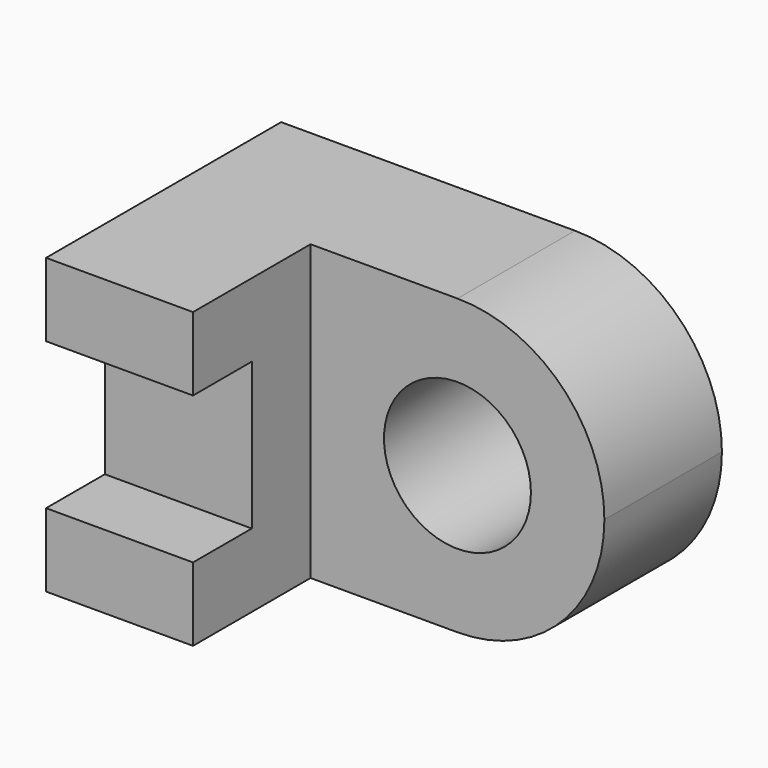
from build123d import *

# Parameters (mm, degrees)
F1_DEPTH = 25.4
F2_R     = 6.35
F3_DEPTH = 12.701
F5_DEPTH = 25.401
F6_W     = 6.35
F6_H     = 12.7
F7_DEPTH = 38.101


with BuildPart() as f1:
    # F0 (on Top) → F1 (new body)
    with BuildSketch(Plane.XY):
        Polygon((38.1, 0), (0, 0), (0, -25.4), (12.7, -25.4), (12.7, -12.7), (38.1, -12.7), align=None)
    extrude(amount=F1_DEPTH)

    # F2 (on face) → F3 (cut, through all)
    with BuildSketch(Plane.XZ.offset(12.7)):
        with Locations((25.4, 12.7)):
            Circle(F2_R)
    extrude(amount=-F3_DEPTH, mode=Mode.SUBTRACT)

    # F4 (on face) → F5 (cut, through all)
    with BuildSketch(Plane(origin=(0, 0, 0), x_dir=(-1, 0, 0), z_dir=(0, 1, 0))):
        with BuildLine():
            ThreePointArc((-25.4, 0), (-34.380256, 3.719744), (-38.1, 12.7))
            Line((-38.1, 12.7), (-38.1, 0))
            Line((-38.1, 0), (-25.4, 0))
        make_face()
        with BuildLine():
            ThreePointArc((-38.1, 12.7), (-34.380256, 21.680256), (-25.4, 25.4))
            Line((-25.4, 25.4), (-38.1, 25.4))
            Line((-38.1, 25.4), (-38.1, 12.7))
        make_face()
    extrude(amount=-F5_DEPTH, mode=Mode.SUBTRACT)

    # F6 (on face) → F7 (cut, through all)
    with BuildSketch(Plane(origin=(0, 0, 0), x_dir=(0, -1, 0), z_dir=(-1, 0, 0))):
        with Locations((22.225, 12.7)):
            Rectangle(F6_W, F6_H)
    extrude(amount=-F7_DEPTH, mode=Mode.SUBTRACT)


solid = f1.part
